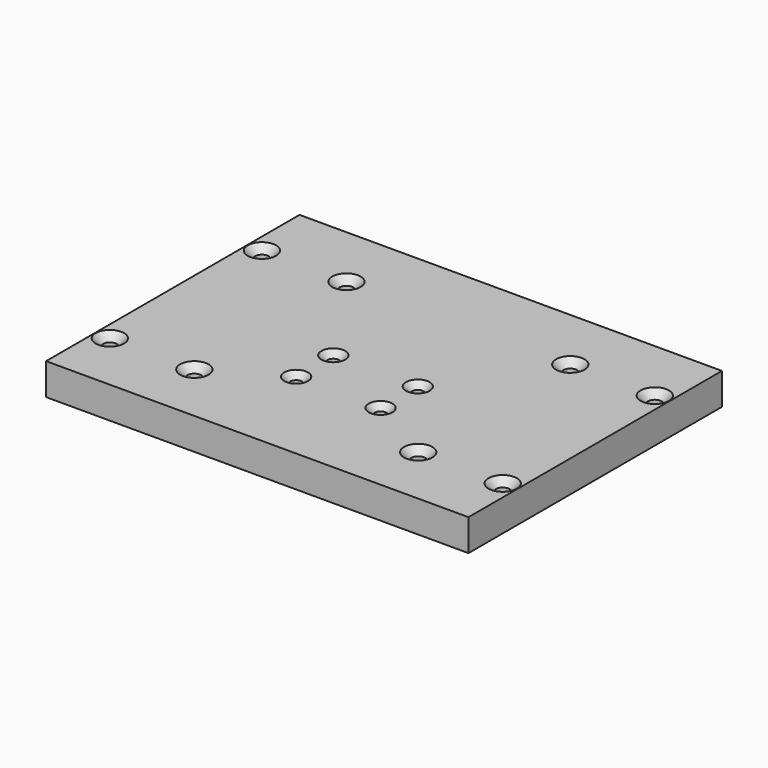
from build123d import *

# Parameters (mm, degrees)
F0_W           = 200
F0_H           = 150
F1_DEPTH       = 15
F3_D           = 6.6
F3_CSINK_D     = 13.44
F3_CSINK_ANGLE = 90
F4_D           = 5.5
F4_CSINK_D     = 11.2
F4_CSINK_ANGLE = 90


with BuildPart() as f1:
    # F0 (on Top) → F1 (new body)
    with BuildSketch(Plane.XY):
        Rectangle(F0_W, F0_H)
    extrude(amount=F1_DEPTH)

    # F3 (through all)
    with Locations(Plane.XY.offset(15)):
        with Locations((-93, 44), (-53, 44), (-93, -46), (-53, -46), (53, 44), (93, 44), (53, -46), (93, -46)):
            CounterSinkHole(F3_D / 2, F3_CSINK_D / 2, counter_sink_angle=F3_CSINK_ANGLE)

    # F4 (through all)
    with Locations(Plane.XY.offset(15)):
        with Locations((-20, -27), (-20, -5), (20, -5), (20, -27)):
            CounterSinkHole(F4_D / 2, F4_CSINK_D / 2, counter_sink_angle=F4_CSINK_ANGLE)


solid = f1.part
